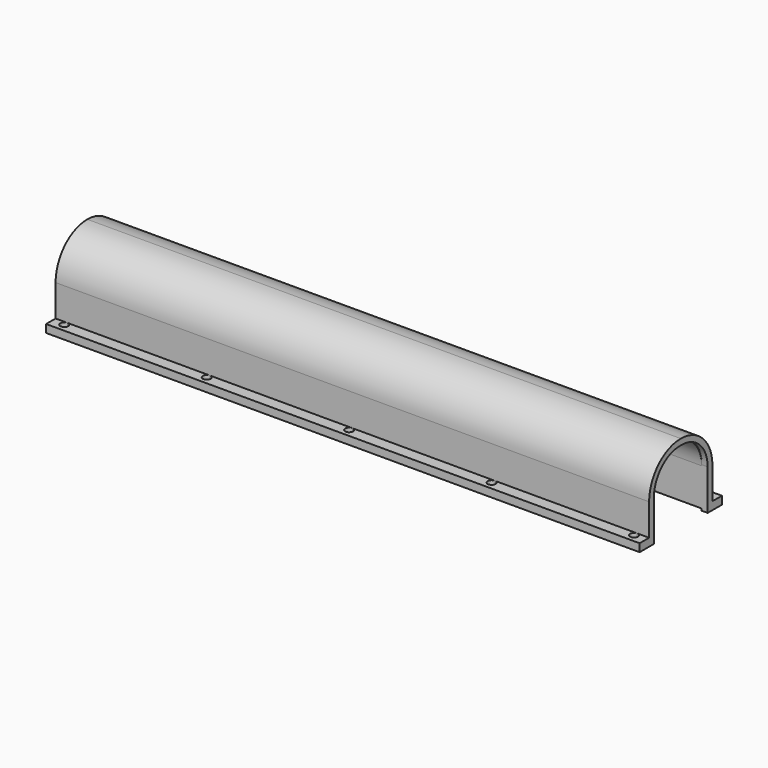
from build123d import *

# Parameters (mm, degrees)
F0_W     = 3
F0_H     = 2
F1_DEPTH = 150
F2_T     = -1.5
F4_DEPTH = 1.5
F6_DEPTH = 1.5
F8_DEPTH = 2


with BuildPart() as f1:
    # F0 (on Right) → F1 (new body)
    with BuildSketch(Plane.YZ):
        with BuildLine():
            Line((-10, 2), (-10, 0))
            Line((-10, 0), (10, 0))
            Line((10, 0), (10, 2))
            Line((10, 2), (10, 10))
            ThreePointArc((10, 10), (7.0710678119, 17.0710678119), (0, 20))
            ThreePointArc((0, 20), (-7.0710678119, 17.0710678119), (-10, 10))
            Line((-10, 10), (-10, 2))
        make_face()
        with Locations((-11.5, 1)):
            Rectangle(F0_W, F0_H)
        with Locations((11.5, 1)):
            Rectangle(F0_W, F0_H)
    extrude(amount=F1_DEPTH)

    # F2
    f2_openings = [f1.faces().sort_by_distance(p)[0] for p in [
        (75, 0, 0),
    ]]
    offset(amount=F2_T, openings=f2_openings, kind=Kind.INTERSECTION)

    # F3 (on face) → F4 (cut)
    with BuildSketch(Plane.YZ.offset(150)):
        with BuildLine():
            Line((-8.5, 10.25), (-8.5, 0))
            Line((-8.5, 0), (8.5, 0))
            Line((8.5, 0), (8.5, 10.25))
            ThreePointArc((8.5, 10.25), (6.0836309448, 16.0836309448), (0.25, 18.5))
            Line((0.25, 18.5), (-0.25, 18.5))
            ThreePointArc((-0.25, 18.5), (-6.0836309448, 16.0836309448), (-8.5, 10.25))
        make_face()
    extrude(amount=-F4_DEPTH, mode=Mode.SUBTRACT)

    # F5 (on face) → F6 (cut)
    with BuildSketch(Plane.XY.offset(2)):
        with BuildLine():
            ThreePointArc((4, 11), (2.2928932188, 11.7071067812), (3, 10))
            ThreePointArc((3, 10), (3.7071067812, 10.2928932188), (4, 11))
        make_face()
        with BuildLine():
            ThreePointArc((40, 11), (38.2928932188, 11.7071067812), (39, 10))
            ThreePointArc((39, 10), (39.7071067812, 10.2928932188), (40, 11))
        make_face()
        with BuildLine():
            ThreePointArc((76, 11), (74.2928932188, 11.7071067812), (75, 10))
            ThreePointArc((75, 10), (75.7071067812, 10.2928932188), (76, 11))
        make_face()
        with BuildLine():
            ThreePointArc((111, 10), (111.7071067812, 10.2928932188), (112, 11))
            ThreePointArc((112, 11), (110.2928932188, 11.7071067812), (111, 10))
        make_face()
        with BuildLine():
            ThreePointArc((148, 11), (146.2928932188, 11.7071067812), (147, 10))
            ThreePointArc((147, 10), (147.7071067812, 10.2928932188), (148, 11))
        make_face()
    extrude(amount=-F6_DEPTH, mode=Mode.SUBTRACT)

    # F7 (on face) → F8 (cut)
    with BuildSketch(Plane.XY.offset(2)):
        with BuildLine():
            ThreePointArc((148, -11), (147.7071067812, -10.2928932188), (147, -10))
            ThreePointArc((147, -10), (146.2928932188, -11.7071067812), (148, -11))
        make_face()
        with BuildLine():
            ThreePointArc((112, -11), (111.7071067812, -10.2928932188), (111, -10))
            ThreePointArc((111, -10), (110.2928932188, -11.7071067812), (112, -11))
        make_face()
        with BuildLine():
            ThreePointArc((76, -11), (75.7071067812, -10.2928932188), (75, -10))
            ThreePointArc((75, -10), (74.2928932188, -11.7071067812), (76, -11))
        make_face()
        with BuildLine():
            ThreePointArc((40, -11), (39.7071067813, -10.2928932189), (39.0000000002, -10))
            ThreePointArc((39.0000000002, -10), (38.2928932187, -11.7071067811), (40, -11))
        make_face()
        with BuildLine():
            ThreePointArc((2.9999999838, -10), (2.2928932245, -11.7071067869), (4, -11))
            ThreePointArc((4, -11), (3.7071067755, -10.2928932131), (2.9999999838, -10))
        make_face()
    extrude(amount=-F8_DEPTH, mode=Mode.SUBTRACT)


solid = f1.part
